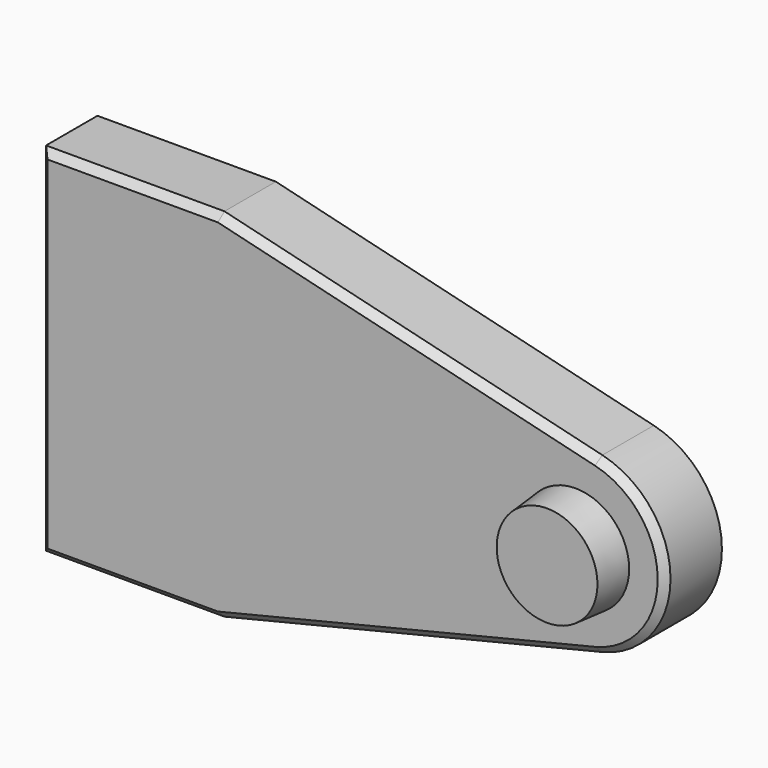
from build123d import *

# Parameters (mm, degrees)
F1_DEPTH = 20
F2_R     = 15
F3_DEPTH = 10
F3_TAPER = 5
F4_SIZE  = 2


with BuildPart() as f1:
    # F0 (on Front) → F1 (new body)
    with BuildSketch(Plane.XZ):
        with BuildLine():
            Line((0, -50), (105.8972473589, -24.2944947177))
            ThreePointArc((105.8972473589, -24.2944947177), (125, 0), (105.8972473589, 24.2944947177))
            Line((105.8972473589, 24.2944947177), (0, 50))
            Line((0, 50), (-50, 50))
            Line((-50, 50), (-50, -50))
            Line((-50, -50), (0, -50))
        make_face()
    extrude(amount=F1_DEPTH)

    # F2 (on face) → F3 (join)
    with BuildSketch(Plane.XZ.offset(20)):
        with Locations((100, 0)):
            Circle(F2_R)
    extrude(amount=F3_DEPTH, taper=F3_TAPER)

    # F4
    f4_edges = [f1.edges().sort_by_distance(p)[0] for p in [
        (52.948624, -20, 37.147247),
        (-25, -20, 50),
        (-50, -20, 0),
        (-25, -20, -50),
        (52.948624, -20, -37.147247),
        (125, -20, 0),
    ]]
    chamfer(f4_edges, length=F4_SIZE)


solid = f1.part
